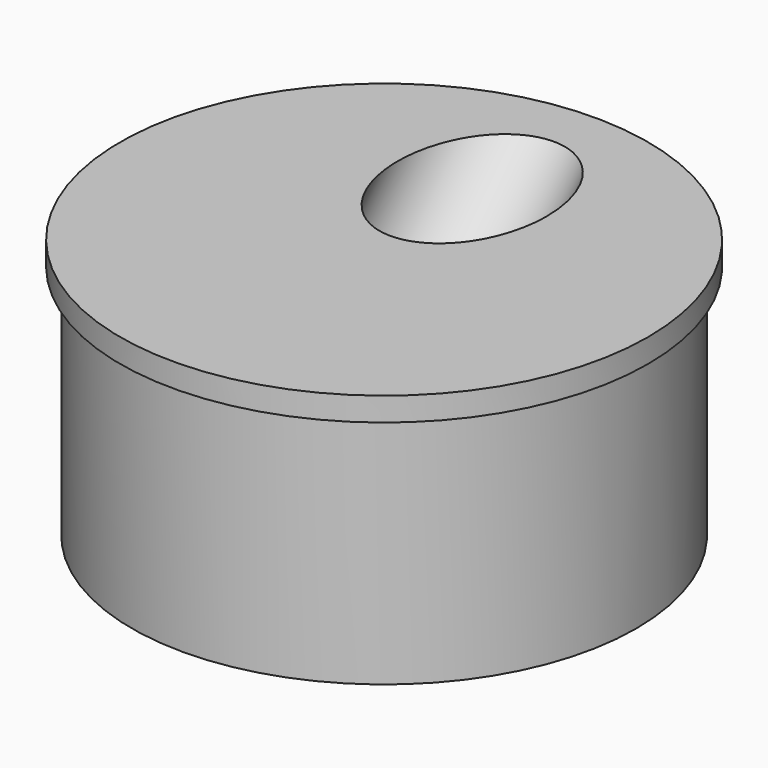
from build123d import *

# Parameters (mm, degrees)
F0_R     = 10.65
F1_DEPTH = 10
F2_R     = 11.15
F2_R_2   = 10.65
F3_DEPTH = 1
F7_R     = 3.15
F8_DEPTH = 27.57


with BuildPart() as f1:
    # F0 (on Top) → F1 (new body)
    with BuildSketch(Plane.XY):
        Circle(F0_R)
    extrude(amount=F1_DEPTH)

    # F2 (on face) → F3 (join)
    with BuildSketch(Plane.XY.offset(10)):
        Circle(F2_R)
        Circle(F2_R_2, mode=Mode.SUBTRACT)
        Circle(F2_R_2)
    extrude(amount=F3_DEPTH)

    # F7 (on face) → F8 (cut)
    with BuildSketch(Plane(origin=(0, 16.688987, 17.823191), x_dir=(1, 0, 0), z_dir=(0, 0.6835, 0.729951))):
        with Locations((0, -4.124223)):
            Circle(F7_R)
    extrude(amount=-F8_DEPTH, mode=Mode.SUBTRACT)


solid = f1.part
